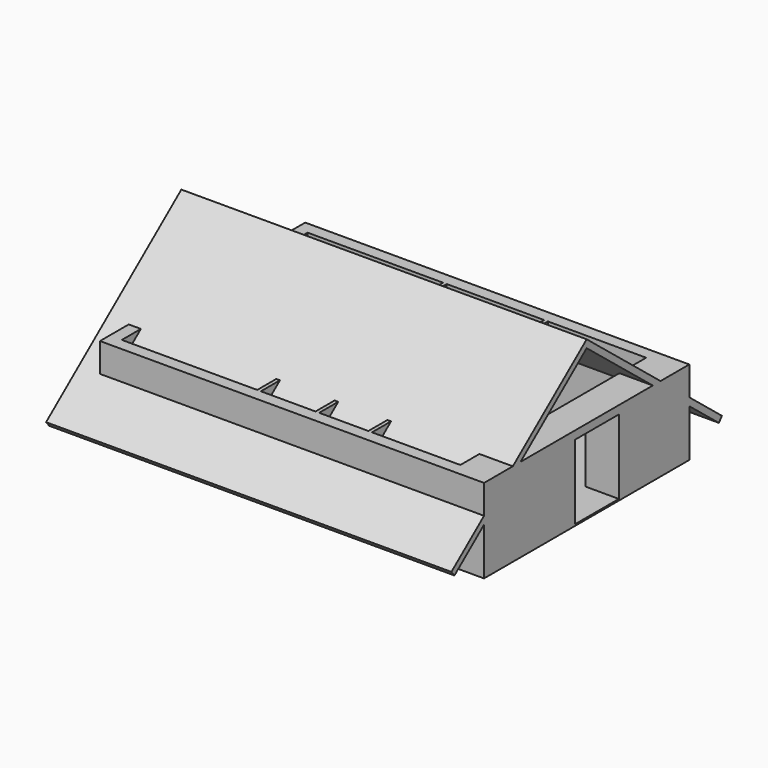
from build123d import *

# Parameters (mm, degrees)
F0_W     = 179
F0_H     = 12
F0_W_2   = 138
F0_H_2   = 40
F0_W_3   = 40
F0_H_3   = 120
F0_W_4   = 92
F0_W_5   = 12
F0_H_4   = 90
F0_H_5   = 180
F0_W_6   = 87
F0_H_6   = 92
F0_W_7   = 26
F0_H_7   = 142
F0_H_8   = 136
F0_W_8   = 228
F0_H_9   = 18
F0_H_10  = 20
F0_W_9   = 20
F1_DEPTH = 5
F2_DEPTH = 277
F3_W     = 40
F3_H     = 120
F3_H_2   = 180
F4_DEPTH = 27
F6_DEPTH = 70
F7_DEPTH = 1265
F8_DEPTH = 70


with BuildPart() as f1:
    # F0 (on Top) → F1 (new body)
    with BuildSketch(Plane.XY):
        with Locations((1040.5, 269)):
            Rectangle(F0_W, F0_H)
        Polygon((794, 408), (794, 420), (669, 420), (669, 515), (652, 515), (652, 503), (657, 503), (657, 408), align=None)
        with Locations((392, -5)):
            Rectangle(F0_W_2, F0_H_2)
        Polygon((1130, 350), (1130, 530), (1130, 780), (806, 780), (806, 691), (832, 691), (832, 549), (806, 549), (806, 385), (806, 293), (806, 275), (839, 275), (859, 275), (951, 275), (1130, 275), align=None)
        with Locations((-5, 547.5)):
            Rectangle(F0_W_3, F0_H_3)
        with Locations((-5, 247.5)):
            Rectangle(F0_W_3, F0_H_3)
        Polygon((15, 487.5), (-25, 487.5), (-25, 307.5), (15, 307.5), (15, 382.1609020233), (15, 391.5), (15, 403.5), align=None)
        Polygon((15, 187.5), (-25, 187.5), (-25, -25), (323, -25), (323, 15), (15, 15), align=None)
        Polygon((1130, 15), (1130, 263), (951, 263), (859, 263), (839, 263), (839, 243), (839, 151), (839, 15), align=None)
        with Locations((905, 269)):
            Rectangle(F0_W_4, F0_H)
        Polygon((364.8940163038, 391.5), (243, 391.5), (243, 382.5), (364.8667633533, 382.5), align=None)
        Polygon((473, 780), (461, 780), (461, 498.5), (473, 498.5), (473, 503), (473, 515), align=None)
        with Locations((467, 453.5)):
            Rectangle(F0_W_5, F0_H_4)
        Polygon((243, 426.5), (243, 403.5), (364.9303535711, 403.5), (365, 426.5), align=None)
        Polygon((473, 503), (473, 498.5), (473, 408.5), (473, 386.5), (473, 296.5), (473, 275), (653, 275), (670, 275), (794, 275), (794, 293), (794, 385), (794, 408), (657, 408), (657, 503), (652, 503), (560, 503), align=None)
        with Locations((1150, 440)):
            Rectangle(F0_W_3, F0_H_5)
        Polygon((665, 263), (665, 15), (827, 15), (827, 151), (827, 243), (827, 263), (806, 263), (794, 263), align=None)
        with Locations((516.5, 509)):
            Rectangle(F0_W_6, F0_H)
        with Locations((467, 341.5)):
            Rectangle(F0_W_5, F0_H_4)
        Polygon((15, 382.1609020233), (15, 307.5), (15, 187.5), (15, 15), (323, 15), (461, 15), (461, 198.5), (435, 198.5), (435, 262.5), (461, 262.5), (461, 296.5), (461, 386.5), (461, 391.5), (365, 391.5), (364.8940163038, 391.5), (364.8667633533, 382.5), (243, 382.5), (243, 391.5), (15, 391.5), align=None)
        Polygon((1170, 530), (1170, 820), (-25, 820), (-25, 607.5), (15, 607.5), (15, 780), (461, 780), (473, 780), (794, 780), (806, 780), (1130, 780), (1130, 530), align=None)
        with Locations((833, 197)):
            Rectangle(F0_W_5, F0_H_6)
        Polygon((461, 198.5), (461, 15), (473, 15), (473, 275), (473, 296.5), (461, 296.5), (461, 262.5), (435, 262.5), (435, 198.5), align=None)
        Polygon((794, 420), (794, 780), (473, 780), (473, 515), (560, 515), (652, 515), (669, 515), (669, 420), align=None)
        with Locations((819, 620)):
            Rectangle(F0_W_7, F0_H_7)
        with Locations((606, 509)):
            Rectangle(F0_W_4, F0_H)
        with Locations((833, 83)):
            Rectangle(F0_W_5, F0_H_8)
        Polygon((653, 275), (653, 15), (665, 15), (665, 263), (794, 263), (794, 275), (670, 275), align=None)
        Polygon((1170, -25), (1170, 350), (1130, 350), (1130, 275), (1130, 263), (1130, 15), (839, 15), (827, 15), (665, 15), (653, 15), (473, 15), (461, 15), (461, -25), align=None)
        with Locations((800, 339)):
            Rectangle(F0_W_5, F0_H_6)
        with Locations((129, 397.5)):
            Rectangle(F0_W_8, F0_H)
        with Locations((800, 284)):
            Rectangle(F0_W_5, F0_H_9)
        Polygon((806, 691), (806, 780), (794, 780), (794, 420), (794, 408), (794, 385), (806, 385), (806, 549), align=None)
        with Locations((833, 253)):
            Rectangle(F0_W_5, F0_H_10)
        Polygon((839, 263), (839, 275), (806, 275), (806, 263), (827, 263), align=None)
        with Locations((849, 269)):
            Rectangle(F0_W_9, F0_H)
        Polygon((365, 403.5), (364.9303535711, 403.5), (364.8940163038, 391.5), (365, 391.5), (461, 391.5), (461, 386.5), (473, 386.5), (473, 408.5), (461, 408.5), (461, 403.5), align=None)
        Polygon((364.9303535711, 403.5), (243, 403.5), (243, 391.5), (364.8940163038, 391.5), align=None)
        with Locations((800, 269)):
            Rectangle(F0_W_5, F0_H)
        Polygon((15, 780), (15, 607.5), (15, 487.5), (15, 403.5), (243, 403.5), (243, 426.5), (365, 426.5), (364.9303535711, 403.5), (365, 403.5), (461, 403.5), (461, 408.5), (461, 498.5), (461, 780), align=None)
    extrude(amount=F1_DEPTH)

    # F0 (on Top) → F2 (join)
    with BuildSketch(Plane.XY):
        Polygon((15, 187.5), (-25, 187.5), (-25, -25), (323, -25), (323, 15), (15, 15), align=None)
        with Locations((392, -5)):
            Rectangle(F0_W_2, F0_H_2)
        Polygon((1170, -25), (1170, 350), (1130, 350), (1130, 275), (1130, 263), (1130, 15), (839, 15), (827, 15), (665, 15), (653, 15), (473, 15), (461, 15), (461, -25), align=None)
        with Locations((833, 83)):
            Rectangle(F0_W_5, F0_H_8)
        Polygon((653, 275), (653, 15), (665, 15), (665, 263), (794, 263), (794, 275), (670, 275), align=None)
        Polygon((461, 198.5), (461, 15), (473, 15), (473, 275), (473, 296.5), (461, 296.5), (461, 262.5), (435, 262.5), (435, 198.5), align=None)
        Polygon((15, 487.5), (-25, 487.5), (-25, 307.5), (15, 307.5), (15, 382.1609020233), (15, 391.5), (15, 403.5), align=None)
        with Locations((129, 397.5)):
            Rectangle(F0_W_8, F0_H)
        Polygon((243, 426.5), (243, 403.5), (364.9303535711, 403.5), (365, 426.5), align=None)
        Polygon((364.9303535711, 403.5), (243, 403.5), (243, 391.5), (364.8940163038, 391.5), align=None)
        Polygon((364.8940163038, 391.5), (243, 391.5), (243, 382.5), (364.8667633533, 382.5), align=None)
        Polygon((365, 403.5), (364.9303535711, 403.5), (364.8940163038, 391.5), (365, 391.5), (461, 391.5), (461, 386.5), (473, 386.5), (473, 408.5), (461, 408.5), (461, 403.5), align=None)
        Polygon((473, 780), (461, 780), (461, 498.5), (473, 498.5), (473, 503), (473, 515), align=None)
        with Locations((516.5, 509)):
            Rectangle(F0_W_6, F0_H)
        Polygon((794, 408), (794, 420), (669, 420), (669, 515), (652, 515), (652, 503), (657, 503), (657, 408), align=None)
        Polygon((806, 691), (806, 780), (794, 780), (794, 420), (794, 408), (794, 385), (806, 385), (806, 549), align=None)
        with Locations((833, 253)):
            Rectangle(F0_W_5, F0_H_10)
        with Locations((849, 269)):
            Rectangle(F0_W_9, F0_H)
        Polygon((839, 263), (839, 275), (806, 275), (806, 263), (827, 263), align=None)
        with Locations((800, 269)):
            Rectangle(F0_W_5, F0_H)
        with Locations((800, 284)):
            Rectangle(F0_W_5, F0_H_9)
        with Locations((1040.5, 269)):
            Rectangle(F0_W, F0_H)
        Polygon((1170, 530), (1170, 820), (-25, 820), (-25, 607.5), (15, 607.5), (15, 780), (461, 780), (473, 780), (794, 780), (806, 780), (1130, 780), (1130, 530), align=None)
        with Locations((819, 620)):
            Rectangle(F0_W_7, F0_H_7)
    extrude(amount=F2_DEPTH)

    # F3 (on face) → F4 (join)
    with BuildSketch(Plane.XY.offset(277)):
        with Locations((-5, 547.5)):
            Rectangle(F3_W, F3_H)
        with Locations((-5, 397.5)):
            Rectangle(F3_W, F3_H_2)
        with Locations((-5, 247.5)):
            Rectangle(F3_W, F3_H)
        with Locations((1150, 440)):
            Rectangle(F3_W, F3_H_2)
    extrude(amount=-F4_DEPTH)

    # F5 (on face) → F6 (join)
    with BuildSketch(Plane(origin=(-25, 0, 0), x_dir=(0, -1, 0), z_dir=(-1, 0, 0))):
        Polygon((-365.5990801838, 496), (-397.5, 496), (-125.3602941176, 277), (-93.4593743014, 277), align=None)
        Polygon((-93.4593743014, 277), (-125.3602941176, 277), (25, 156), (25, 181.6717461243), align=None)
        Polygon((25, 181.6717461243), (25, 156), (146.7794117647, 58), (159.3182351687, 73.5813320241), align=None)
        Polygon((-429.4009198162, 496), (-397.5, 496), (-365.5990801838, 496), (-397.5, 521.6717461243), align=None)
        Polygon((-669.6397058824, 277), (-397.5, 496), (-429.4009198162, 496), (-701.5406256986, 277), align=None)
        Polygon((-941.7794117647, 58), (-820, 156), (-820, 181.6717461243), (-954.3182351687, 73.5813320241), align=None)
        Polygon((-820, 156), (-669.6397058824, 277), (-701.5406256986, 277), (-820, 181.6717461243), align=None)
    extrude(amount=F6_DEPTH)

    # F7 (add, through all): a face of the model
    f7_faces = [f1.faces().sort_by_distance(p)[0] for p in [
        (-95, 117.7974560425, 286.3979384905),
    ]]
    extrude(f7_faces, amount=-F7_DEPTH)

    # F8 (add): a face of the model
    f8_faces = [f1.faces().sort_by_distance(p)[0] for p in [
        (1170, 807.7023270544, 229.3358730621),
    ]]
    extrude(f8_faces, amount=F8_DEPTH)


solid = f1.part
